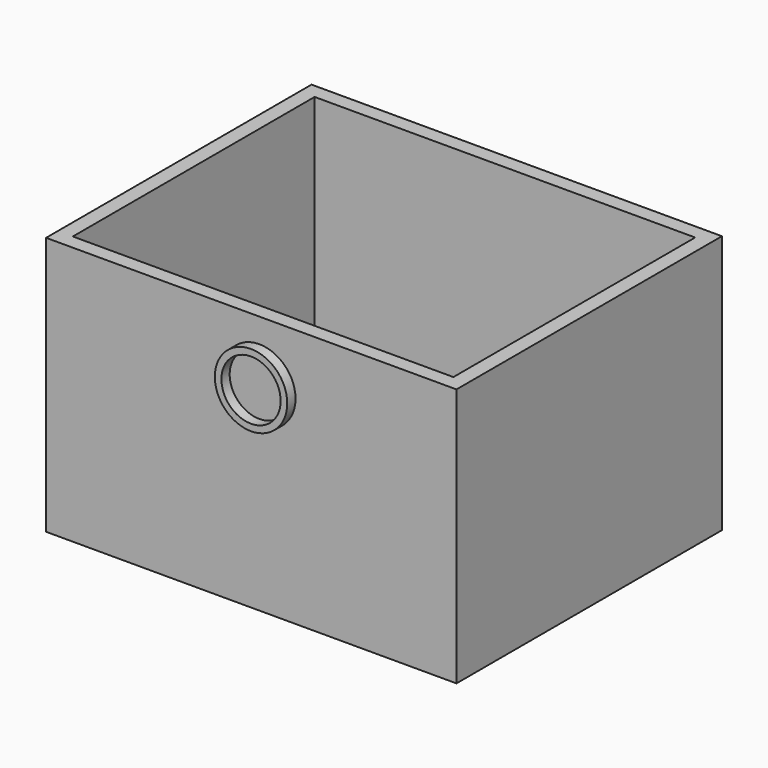
from build123d import *

# Parameters (mm, degrees)
F0_W     = 80.548994
F0_H     = 65.119892
F1_DEPTH = 50.8
F2_W     = 74.689142
F2_H     = 59.31776
F3_DEPTH = 47.752
F4_R     = 7.108362
F4_R_2   = 5.812962
F5_DEPTH = 2.032


with BuildPart() as f1:
    # F0 (on Top) → F1 (new body)
    with BuildSketch(Plane.XY):
        Rectangle(F0_W, F0_H)
    extrude(amount=F1_DEPTH)

    # F2 (on face) → F3 (cut)
    with BuildSketch(Plane.XY.offset(50.8)):
        Rectangle(F2_W, F2_H)
    extrude(amount=-F3_DEPTH, mode=Mode.SUBTRACT)

    # F4 (on face) → F5 (join)
    with BuildSketch(Plane.XZ.offset(32.559946)):
        with Locations((1.574243, 38.920175)):
            Circle(F4_R)
        with Locations((1.574243, 38.920175)):
            Circle(F4_R_2, mode=Mode.SUBTRACT)
    extrude(amount=F5_DEPTH)


solid = f1.part
